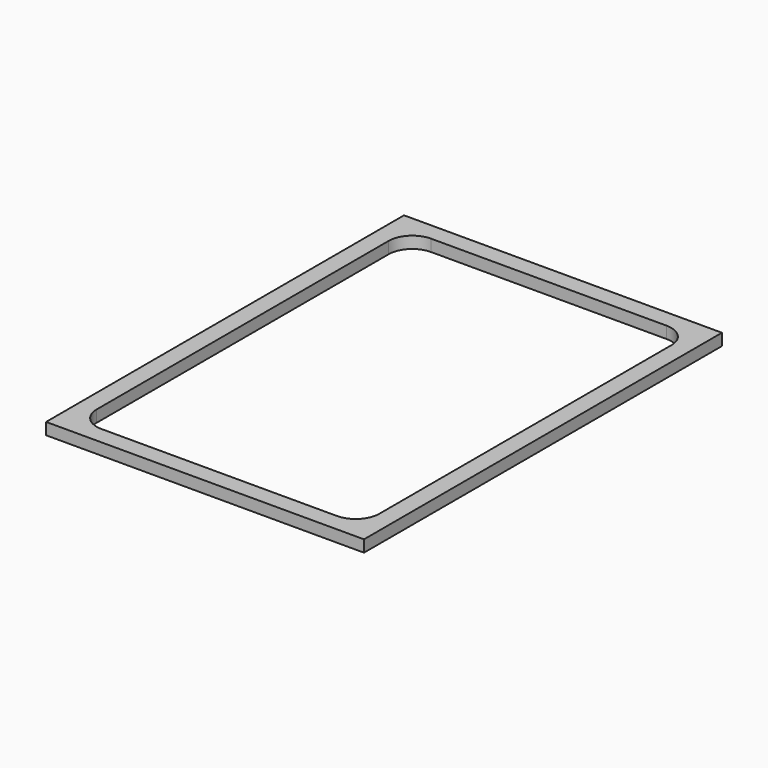
from build123d import *

# Parameters (mm, degrees)
F0_W     = 54
F0_H     = 76
F1_DEPTH = 2


with BuildPart() as f1:
    # F0 (on Top) → F1 (new body)
    with BuildSketch(Plane.XY):
        with Locations((-7.570542, 6.766017)):
            Rectangle(F0_W, F0_H)
        with BuildLine():
            ThreePointArc((-31.570542, 37.766017), (-30.398969, 40.594444), (-27.570542, 41.766017))
            Line((-27.570542, 41.766017), (12.429458, 41.766017))
            ThreePointArc((12.429458, 41.766017), (15.257886, 40.594444), (16.429458, 37.766017))
            Line((16.429458, 37.766017), (16.429458, -24.233983))
            ThreePointArc((16.429458, -24.233983), (15.257886, -27.062411), (12.429458, -28.233983))
            Line((12.429458, -28.233983), (-27.570542, -28.233983))
            ThreePointArc((-27.570542, -28.233983), (-30.398969, -27.062411), (-31.570542, -24.233983))
            Line((-31.570542, -24.233983), (-31.570542, 37.766017))
        make_face(mode=Mode.SUBTRACT)
    extrude(amount=F1_DEPTH)


solid = f1.part
